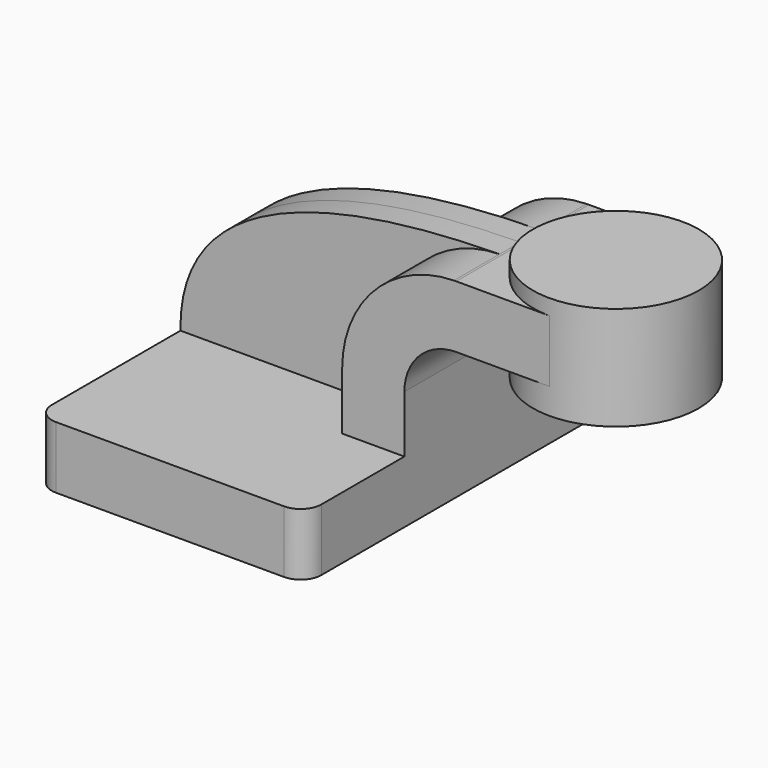
from build123d import *

# Parameters (mm, degrees)
F1_DEPTH = 63.5
F0_W     = 25.4
F0_H     = 19.05
F2_DEPTH = 25.4
F3_DEPTH = 7.9375
F5_R     = 6.35


with BuildPart() as f1:
    # F0 (on Front) → F1 (new body, symmetric)
    with BuildSketch(Plane.XZ):
        Polygon((41.275, -9.525), (41.275, 9.525), (22.225, 9.525), (-41.275, 9.525), (-41.275, -9.525), align=None)
    extrude(amount=F1_DEPTH, both=True)

    # F0 (on Front) → F2 (join, symmetric)
    with BuildSketch(Plane.XZ):
        with BuildLine():
            Line((22.225, 9.525), (41.275, 9.525))
            Line((41.275, 9.525), (41.275, 27.0002))
            ThreePointArc((41.275, 27.0002), (45.9246798487, 38.2255201513), (57.15, 42.8752))
            Line((57.15, 42.8752), (60.325, 42.8752))
            Line((60.325, 42.8752), (60.325, 61.9252))
            Line((60.325, 61.9252), (57.15, 61.9252))
            add(Edge.make_bspline(
                [(56.4747169811, 61.9186710124), (56.6997276524, 61.9210648372), (56.9248231991, 61.9232407005), (57.15, 61.9252)],
                knots=[111.0184231713, 111.0184231713, 111.0184231713, 111.0184231713, 111.5045361635, 111.5045361635, 111.5045361635, 111.5045361635], degree=3))
            ThreePointArc((56.4747169811, 61.9186710124), (32.216690107, 51.4559903733), (22.225, 27.0002))
            Line((22.225, 27.0002), (22.225, 9.525))
        make_face()
        with Locations((73.025, 52.4002)):
            Rectangle(F0_W, F0_H)
    extrude(amount=F2_DEPTH, both=True)

    # F0 (on Front) → F3 (join, symmetric)
    with BuildSketch(Plane.XZ):
        with BuildLine():
            Line((-41.275, 9.525), (22.225, 9.525))
            Line((22.225, 9.525), (22.225, 27.0002))
            ThreePointArc((22.225, 27.0002), (32.216690107, 51.4559903733), (56.4747169811, 61.9186710124))
            add(Edge.make_bspline(
                [(-41.275, 9.525), (-41.8742249789, 49.4569702257), (5.0868085597, 61.3719696076), (56.4747169811, 61.9186710124)],
                knots=[0, 0, 0, 0, 111.0184231713, 111.0184231713, 111.0184231713, 111.0184231713], degree=3))
        make_face()
    extrude(amount=F3_DEPTH, both=True)

    # F5
    f5_edges = [f1.edges().sort_by_distance(p)[0] for p in [
        (41.275, -63.5, 0),
        (-41.275, -63.5, 0),
        (-41.275, 63.5, 0),
        (41.275, 63.5, 0),
    ]]
    fillet(f5_edges, radius=F5_R)


with BuildPart() as f4:
    # F0 (on Front) → F4 (revolve)
    with BuildSketch(Plane.XZ):
        Polygon((85.725, 61.9252), (85.725, 42.8752), (85.725, 34.925), (111.125, 34.925), (111.125, 66.675), (85.725, 66.675), align=None)
    revolve(axis=Axis((85.725, 0, 50.8), (0, 0, 1)))


solid = Compound([f1.part, f4.part])
